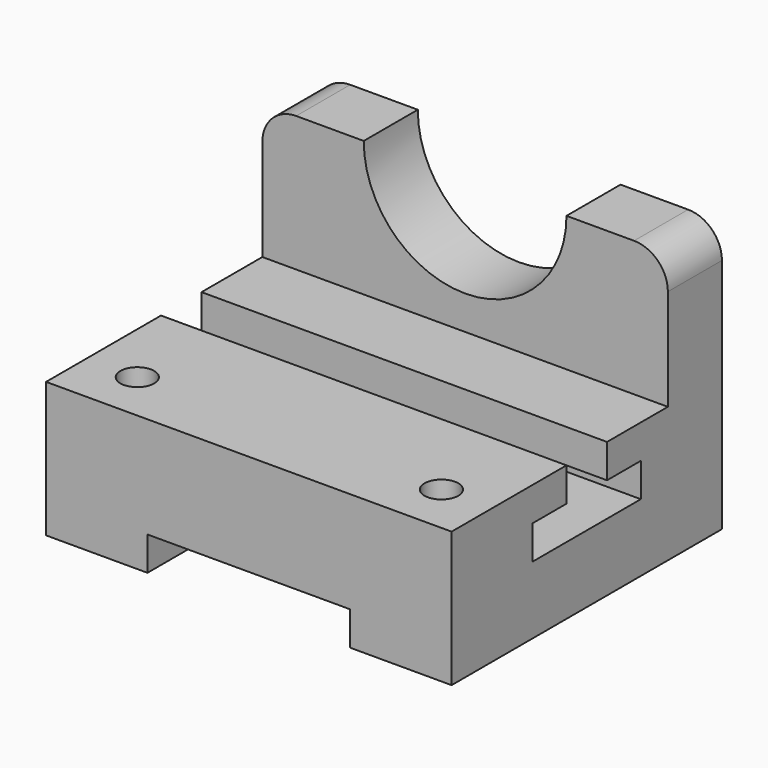
from build123d import *

# Parameters (mm, degrees)
F1_DEPTH  = 101.6
F4_DEPTH  = 152.4
F2_R      = 6.35
F5_DEPTH  = 50.801
F7_DEPTH  = 152.4
F8_R      = 12.7
F9_R      = 38.1
F10_DEPTH = 25.4
F11_W     = 76.2
F11_H     = 12.7
F12_DEPTH = 25.4


with BuildPart() as f1:
    # F0 (on Front) → F1 (new body)
    with BuildSketch(Plane.XZ):
        Polygon((-48.089636, 50.8), (-48.089636, 0), (-9.989636, 0), (-9.989636, 12.7), (66.210364, 12.7), (66.210364, 0), (104.310364, 0), (104.310364, 50.8), align=None)
    extrude(amount=F1_DEPTH)

    # F3 (on face) → F4 (cut)
    with BuildSketch(Plane.YZ.offset(104.310364)):
        Polygon((-28.575, 50.8), (-47.625, 50.8), (-47.625, 38.1), (-63.5, 38.1), (-63.5, 25.4), (-12.7, 25.4), (-12.7, 38.1), (-28.575, 38.1), align=None)
    extrude(amount=-F4_DEPTH, mode=Mode.SUBTRACT)

    # F2 (on face) → F5 (cut, through all)
    with BuildSketch(Plane.XY.offset(50.8)):
        with Locations((-29.039636, -82.55)):
            Circle(F2_R)
        with Locations((85.260364, -82.55)):
            Circle(F2_R)
    extrude(amount=-F5_DEPTH, mode=Mode.SUBTRACT)

    # F6 (on face) → F7 (join)
    with BuildSketch(Plane.YZ.offset(104.310364)):
        Polygon((0, 101.6), (0, 50.8), (0, 0), (25.4, 0), (25.4, 101.6), align=None)
    extrude(amount=-F7_DEPTH)

    # F8
    f8_edges = [f1.edges().sort_by_distance(p)[0] for p in [
        (104.310364, 12.7, 101.6),
        (-48.089636, 12.7, 101.6),
    ]]
    fillet(f8_edges, radius=F8_R)

    # F9 (on face) → F10 (cut)
    with BuildSketch(Plane.XZ):
        with Locations((28.110364, 101.6)):
            Circle(F9_R)
    extrude(amount=-F10_DEPTH, mode=Mode.SUBTRACT)

    # F11 (on face) → F12 (cut)
    with BuildSketch(Plane(origin=(0, 25.4, 0), x_dir=(-1, 0, 0), z_dir=(0, 1, 0))):
        with Locations((-28.110364, 6.35)):
            Rectangle(F11_W, F11_H)
    extrude(amount=-F12_DEPTH, mode=Mode.SUBTRACT)


solid = f1.part
